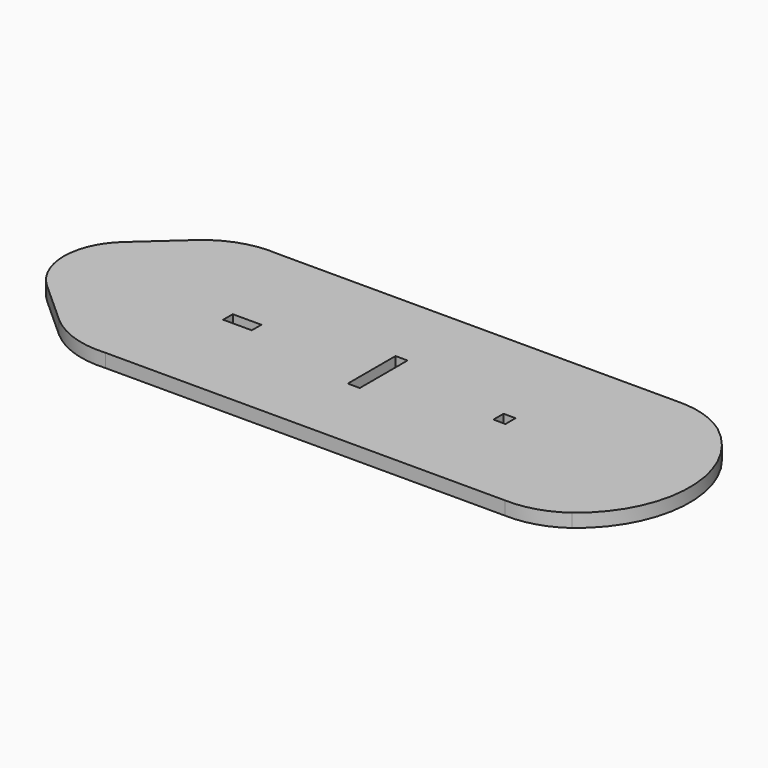
from build123d import *

# Parameters (mm, degrees)
F0_W     = 10
F0_H     = 4.2
F0_W_2   = 4.2
F0_H_2   = 20.833439
F0_H_3   = 4.413291
F1_DEPTH = 4.7


with BuildPart() as f1:
    # F0 (on Top) → F1 (new body)
    with BuildSketch(Plane.XY):
        with BuildLine():
            Line((77.899866, 37.688946), (-61.590597, 37.688946))
            ThreePointArc((-61.590597, 37.688946), (-73.325816, 36.25533), (-83.589011, 30.386986))
            Line((-83.589011, 30.386986), (-84.255223, 29.786773))
            Line((-84.255223, 29.786773), (-98.703748, 16.769597))
            ThreePointArc((-98.703748, 16.769597), (-106.083018, 0.188949), (-98.703748, -16.3917))
            Line((-98.703748, -16.3917), (-83.589011, -30.009089))
            ThreePointArc((-83.589011, -30.009089), (-73.325816, -35.877432), (-61.590597, -37.311049))
            Line((-61.590597, -37.311049), (77.991385, -37.311049))
            ThreePointArc((77.991385, -37.311049), (87.872, -36.035201), (96.792933, -31.59997))
            ThreePointArc((96.792933, -31.59997), (112.514041, 0.188949), (96.792933, 31.977867))
            ThreePointArc((96.792933, 31.977867), (87.872, 36.413099), (77.991385, 37.688946))
            Line((77.991385, 37.688946), (77.899866, 37.688946))
        make_face()
        with Locations((-43.705713, 0.082303)):
            Rectangle(F0_W, F0_H, mode=Mode.SUBTRACT)
        with Locations((3.496545, 0.188949)):
            Rectangle(F0_W_2, F0_H_2, mode=Mode.SUBTRACT)
        with Locations((47.798803, 0.188948)):
            Rectangle(F0_W_2, F0_H_3, mode=Mode.SUBTRACT)
        with BuildLine():
            Line((-84.255223, 29.786773), (-83.589011, 30.386986))
            ThreePointArc((-83.589011, 30.386986), (-83.924366, 30.089376), (-84.255223, 29.786773))
        make_face()
        with BuildLine():
            Line((77.899866, 37.688946), (-61.590597, 37.688946))
            ThreePointArc((-61.590597, 37.688946), (-73.325816, 36.25533), (-83.589011, 30.386986))
            Line((-83.589011, 30.386986), (-84.255223, 29.786773))
            Line((-84.255223, 29.786773), (-98.703748, 16.769597))
            ThreePointArc((-98.703748, 16.769597), (-106.083018, 0.188949), (-98.703748, -16.3917))
            Line((-98.703748, -16.3917), (-83.589011, -30.009089))
            ThreePointArc((-83.589011, -30.009089), (-73.325816, -35.877432), (-61.590597, -37.311049))
            Line((-61.590597, -37.311049), (77.991385, -37.311049))
            ThreePointArc((77.991385, -37.311049), (87.872, -36.035201), (96.792933, -31.59997))
            ThreePointArc((96.792933, -31.59997), (112.514041, 0.188949), (96.792933, 31.977867))
            ThreePointArc((96.792933, 31.977867), (87.872, 36.413099), (77.991385, 37.688946))
            Line((77.991385, 37.688946), (77.899866, 37.688946))
        make_face()
        with Locations((-43.705713, 0.082303)):
            Rectangle(F0_W, F0_H, mode=Mode.SUBTRACT)
        with Locations((3.496545, 0.188949)):
            Rectangle(F0_W_2, F0_H_2, mode=Mode.SUBTRACT)
        with Locations((47.798803, 0.188948)):
            Rectangle(F0_W_2, F0_H_3, mode=Mode.SUBTRACT)
    extrude(amount=F1_DEPTH)


solid = f1.part
